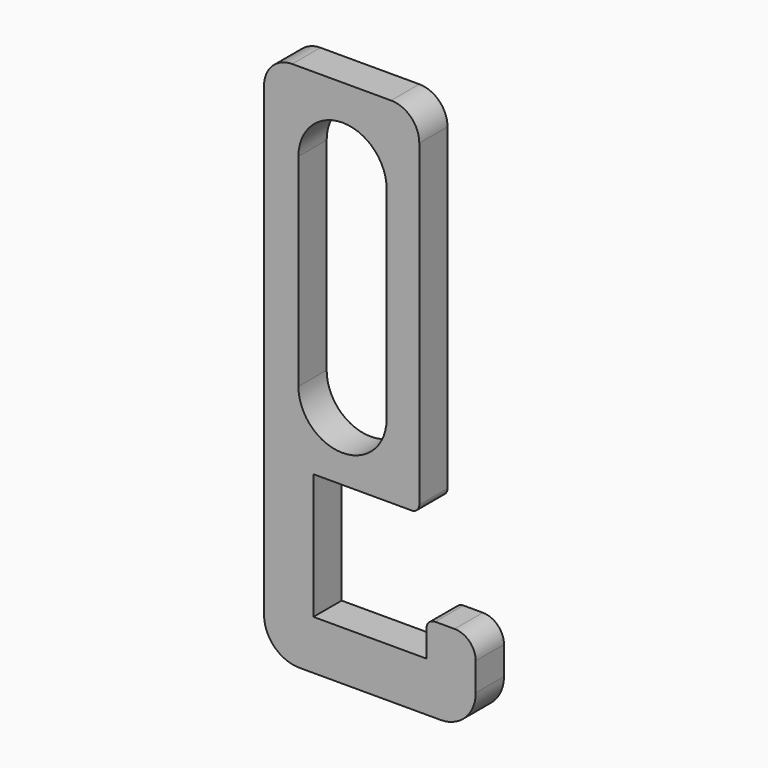
from build123d import *

# Parameters (mm, degrees)
F1_DEPTH = 4
F2_DEPTH = 5


with BuildPart() as f1:
    # F0 (on Front) → F1 (new body)
    with BuildSketch(Plane.XZ):
        with BuildLine():
            ThreePointArc((-26, 75), (-28.828427, 73.828427), (-30, 71))
            Line((-30, 71), (-30, 5))
            ThreePointArc((-30, 5), (-28.535534, 1.464466), (-25, 0))
            Line((-25, 0), (-5, 0))
            ThreePointArc((-5, 0), (-1.464466, 1.464466), (0, 5))
            Line((0, 5), (0, 9))
            ThreePointArc((0, 9), (-0.87868, 11.12132), (-3, 12))
            Line((-3, 12), (-5.736831, 12))
            ThreePointArc((-5.736831, 12), (-6.630026, 11.630026), (-7, 10.736831))
            Line((-7, 10.736831), (-7, 7))
            Line((-7, 7), (-23, 7))
            Line((-23, 7), (-23, 24.800578))
            Line((-23, 24.800578), (-9.063169, 24.800578))
            ThreePointArc((-9.063169, 24.800578), (-8.311395, 25.111973), (-8, 25.863747))
            Line((-8, 25.863747), (-8, 71))
            ThreePointArc((-8, 71), (-9.171573, 73.828427), (-12, 75))
            Line((-12, 75), (-26, 75))
        make_face()
        with BuildLine():
            ThreePointArc((-25.127143, 63.75), (-18.877143, 70), (-12.627143, 63.75))
            Line((-12.627143, 63.75), (-12.627143, 35.050578))
            ThreePointArc((-12.627143, 35.050578), (-18.877143, 28.800578), (-25.127143, 35.050578))
            Line((-25.127143, 35.050578), (-25.127143, 63.75))
        make_face(mode=Mode.SUBTRACT)
    extrude(amount=F1_DEPTH)

    # F0 (on Front) → F2 (join)
    with BuildSketch(Plane.XZ):
        with BuildLine():
            ThreePointArc((-26, 75), (-28.828427, 73.828427), (-30, 71))
            Line((-30, 71), (-30, 5))
            ThreePointArc((-30, 5), (-28.535534, 1.464466), (-25, 0))
            Line((-25, 0), (-5, 0))
            ThreePointArc((-5, 0), (-1.464466, 1.464466), (0, 5))
            Line((0, 5), (0, 9))
            ThreePointArc((0, 9), (-0.87868, 11.12132), (-3, 12))
            Line((-3, 12), (-5.736831, 12))
            ThreePointArc((-5.736831, 12), (-6.630026, 11.630026), (-7, 10.736831))
            Line((-7, 10.736831), (-7, 7))
            Line((-7, 7), (-23, 7))
            Line((-23, 7), (-23, 24.800578))
            Line((-23, 24.800578), (-9.063169, 24.800578))
            ThreePointArc((-9.063169, 24.800578), (-8.311395, 25.111973), (-8, 25.863747))
            Line((-8, 25.863747), (-8, 71))
            ThreePointArc((-8, 71), (-9.171573, 73.828427), (-12, 75))
            Line((-12, 75), (-26, 75))
        make_face()
        with BuildLine():
            ThreePointArc((-25.127143, 63.75), (-18.877143, 70), (-12.627143, 63.75))
            Line((-12.627143, 63.75), (-12.627143, 35.050578))
            ThreePointArc((-12.627143, 35.050578), (-18.877143, 28.800578), (-25.127143, 35.050578))
            Line((-25.127143, 35.050578), (-25.127143, 63.75))
        make_face(mode=Mode.SUBTRACT)
    extrude(amount=F2_DEPTH)


solid = f1.part
